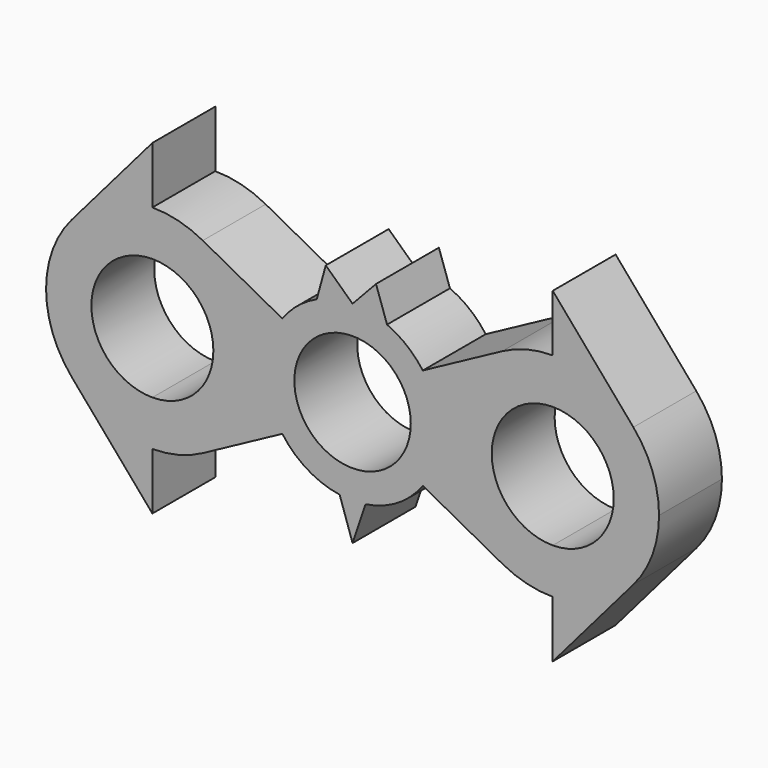
from build123d import *

# Parameters (mm, degrees)
F0_R     = 11.1087126895
F1_DEPTH = 15


with BuildPart() as f1:
    # F0 (on Front) → F1 (new body)
    with BuildSketch(Plane.XZ):
        with BuildLine():
            ThreePointArc((13.4054841173, -9.6794165893), (15.7329987638, -5.0863405143), (16.5347546074, 0))
            ThreePointArc((16.5347546074, 0), (15.7329987638, 5.0863405143), (13.4054841173, 9.6794165893))
            ThreePointArc((13.4054841173, 9.6794165893), (10.3636127764, 12.8838519143), (6.5817506, 15.1683443054))
            ThreePointArc((6.5817506, 15.1683443054), (3.3610458965, 16.1895484931), (0, 16.5347546074))
            Line((0, 16.5347546074), (-6.84138025, 15.0530271442))
            ThreePointArc((-6.84138025, 15.0530271442), (-10.4739105293, 12.7943467263), (-13.4054841173, 9.6794165893))
            ThreePointArc((-13.4054841173, 9.6794165893), (-16.5347546074, 0), (-13.4054841173, -9.6794165893))
            ThreePointArc((-13.4054841173, -9.6794165893), (-8.6057957477, -14.1187247823), (-2.46063304, -16.3506389774))
            ThreePointArc((-2.46063304, -16.3506389774), (-1.2337558027, -16.4886614541), (0, -16.5347546074))
            ThreePointArc((0, -16.5347546074), (1.2337558027, -16.4886614541), (2.46063304, -16.3506389774))
            ThreePointArc((2.46063304, -16.3506389774), (8.6057957477, -14.1187247823), (13.4054841173, -9.6794165893))
        make_face()
        Circle(F0_R, mode=Mode.SUBTRACT)
        with BuildLine():
            ThreePointArc((13.4054841173, 9.6794165893), (15.7329987638, 5.0863405143), (16.5347546074, 0))
            ThreePointArc((16.5347546074, 0), (15.7329987638, -5.0863405143), (13.4054841173, -9.6794165893))
            Line((13.4054841173, -9.6794165893), (28.5778386551, -17.8569645029))
            ThreePointArc((28.5778386551, -17.8569645029), (17.9168171415, 0), (28.5778386551, 17.8569645029))
            Line((28.5778386551, 17.8569645029), (13.4054841173, 9.6794165893))
        make_face()
        with BuildLine():
            ThreePointArc((0, 16.5347546074), (3.3610458965, 16.1895484931), (6.5817506, 15.1683443054))
            Line((6.5817506, 15.1683443054), (4.477564806, 21.3183363497))
            Line((4.477564806, 21.3183363497), (0, 16.5347546074))
        make_face()
        with BuildLine():
            ThreePointArc((38.2023292013, 20.2855120599), (33.2392489705, 19.6690069438), (28.5778386551, 17.8569645029))
            ThreePointArc((28.5778386551, 17.8569645029), (17.9168171415, 0), (28.5778386551, -17.8569645029))
            ThreePointArc((28.5778386551, -17.8569645029), (33.2392489705, -19.6690069438), (38.2023292013, -20.2855120599))
            Line((38.2023292013, -20.2855120599), (38.2023292013, -11.637699008))
            ThreePointArc((38.2023292013, -11.637699008), (26.5646301933, 0), (38.2023292013, 11.637699008))
            Line((38.2023292013, 11.637699008), (38.2023292013, 20.2855120599))
        make_face()
        with BuildLine():
            Line((0, -23.6800604716), (2.46063304, -16.3506389774))
            ThreePointArc((2.46063304, -16.3506389774), (1.2337558027, -16.4886614541), (0, -16.5347546074))
            Line((0, -16.5347546074), (0, -23.6800604716))
        make_face()
        with BuildLine():
            Line((-6.84138025, 15.0530271442), (0, 16.5347546074))
            ThreePointArc((0, 16.5347546074), (-3.5, 16.1600776585), (-6.84138025, 15.0530271442))
        make_face()
        with BuildLine():
            ThreePointArc((-6.84138025, 15.0530271442), (-3.5, 16.1600776585), (0, 16.5347546074))
            Line((0, 16.5347546074), (-5.1105132536, 21.3183363497))
            Line((-5.1105132536, 21.3183363497), (-6.84138025, 15.0530271442))
        make_face()
        with BuildLine():
            Line((38.2023292013, 31.1350713114), (38.2023292013, 20.2855120599))
            ThreePointArc((38.2023292013, 20.2855120599), (46.6697685138, 18.4337861282), (53.5913383502, 13.216671175))
            Line((53.5913383502, 13.216671175), (38.2023292013, 31.1350713114))
        make_face()
        with BuildLine():
            ThreePointArc((53.5913383502, 13.216671175), (46.6697685138, 18.4337861282), (38.2023292013, 20.2855120599))
            Line((38.2023292013, 20.2855120599), (38.2023292013, 11.637699008))
            ThreePointArc((38.2023292013, 11.637699008), (46.4314250873, 8.229095886), (49.8400282094, 0))
            ThreePointArc((49.8400282094, 0), (46.4314250873, -8.229095886), (38.2023292013, -11.637699008))
            Line((38.2023292013, -11.637699008), (38.2023292013, -20.2855120599))
            ThreePointArc((38.2023292013, -20.2855120599), (46.6697685138, -18.4337861282), (53.5913383502, -13.216671175))
            ThreePointArc((53.5913383502, -13.216671175), (57.2243681327, -7.0472714171), (58.4878412612, 0))
            ThreePointArc((58.4878412612, 0), (57.2243681327, 7.0472714171), (53.5913383502, 13.216671175))
        make_face()
        with BuildLine():
            Line((0, -23.6800604716), (0, -16.5347546074))
            ThreePointArc((0, -16.5347546074), (-1.2337558027, -16.4886614541), (-2.46063304, -16.3506389774))
            Line((-2.46063304, -16.3506389774), (0, -23.6800604716))
        make_face()
        with BuildLine():
            ThreePointArc((53.5913383502, -13.216671175), (46.6697685138, -18.4337861282), (38.2023292013, -20.2855120599))
            Line((38.2023292013, -20.2855120599), (38.2023292013, -31.1350713114))
            Line((38.2023292013, -31.1350713114), (53.5913383502, -13.216671175))
        make_face()
        with BuildLine():
            ThreePointArc((-13.4054841173, -9.6794165893), (-16.5347546074, 0), (-13.4054841173, 9.6794165893))
            Line((-13.4054841173, 9.6794165893), (-28.5778386551, 17.8569645029))
            ThreePointArc((-28.5778386551, 17.8569645029), (-20.7848133254, 10.3986605023), (-17.9168171415, 0))
            ThreePointArc((-17.9168171415, 0), (-20.7848133254, -10.3986605023), (-28.5778386551, -17.8569645029))
            Line((-28.5778386551, -17.8569645029), (-13.4054841173, -9.6794165893))
        make_face()
        with BuildLine():
            ThreePointArc((-17.9168171415, 0), (-20.7848133254, 10.3986605023), (-28.5778386551, 17.8569645029))
            ThreePointArc((-28.5778386551, 17.8569645029), (-33.2392489705, 19.6690069438), (-38.2023292013, 20.2855120599))
            Line((-38.2023292013, 20.2855120599), (-38.2023292013, 11.637699008))
            ThreePointArc((-38.2023292013, 11.637699008), (-29.9732333154, 8.229095886), (-26.5646301933, 0))
            ThreePointArc((-26.5646301933, 0), (-29.9732333154, -8.229095886), (-38.2023292013, -11.637699008))
            Line((-38.2023292013, -11.637699008), (-38.2023292013, -20.2855120599))
            ThreePointArc((-38.2023292013, -20.2855120599), (-33.2392489705, -19.6690069438), (-28.5778386551, -17.8569645029))
            ThreePointArc((-28.5778386551, -17.8569645029), (-20.7848133254, -10.3986605023), (-17.9168171415, 0))
        make_face()
        with BuildLine():
            Line((-38.2023292013, 11.637699008), (-38.2023292013, 20.2855120599))
            ThreePointArc((-38.2023292013, 20.2855120599), (-46.6697685138, 18.4337861282), (-53.5913383502, 13.216671175))
            ThreePointArc((-53.5913383502, 13.216671175), (-58.4878412612, 0), (-53.5913383502, -13.216671175))
            ThreePointArc((-53.5913383502, -13.216671175), (-46.6697685138, -18.4337861282), (-38.2023292013, -20.2855120599))
            Line((-38.2023292013, -20.2855120599), (-38.2023292013, -11.637699008))
            ThreePointArc((-38.2023292013, -11.637699008), (-49.8400282094, 0), (-38.2023292013, 11.637699008))
        make_face()
        with BuildLine():
            ThreePointArc((-53.5913383502, 13.216671175), (-46.6697685138, 18.4337861282), (-38.2023292013, 20.2855120599))
            Line((-38.2023292013, 20.2855120599), (-38.2023292013, 31.1350713114))
            Line((-38.2023292013, 31.1350713114), (-53.5913383502, 13.216671175))
        make_face()
        with BuildLine():
            Line((-38.2023292013, -31.1350713114), (-38.2023292013, -20.2855120599))
            ThreePointArc((-38.2023292013, -20.2855120599), (-46.6697685138, -18.4337861282), (-53.5913383502, -13.216671175))
            Line((-53.5913383502, -13.216671175), (-38.2023292013, -31.1350713114))
        make_face()
    extrude(amount=F1_DEPTH)


solid = f1.part
